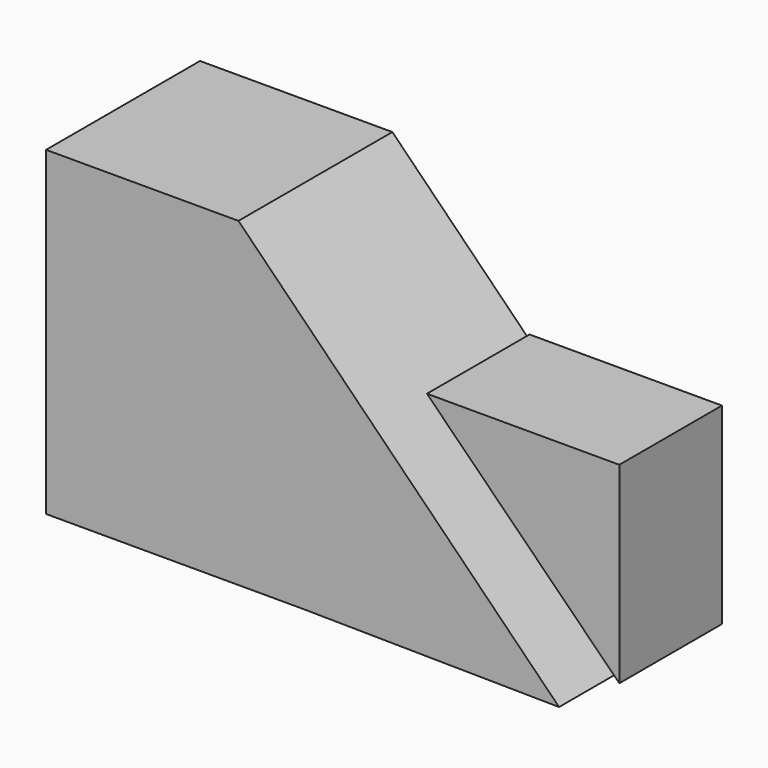
from build123d import *

# Parameters (mm, degrees)
F1_DEPTH = 38.1
F3_DEPTH = 25.4


with BuildPart() as f1:
    # F0 (on Front) → F1 (new body)
    with BuildSketch(Plane.XZ):
        Polygon((-41.598142, -36.834993), (9.201858, -36.834993), (59.998118, -37.451452), (-3.498142, 26.665007), (-41.598142, 26.665007), align=None)
    extrude(amount=F1_DEPTH)


with BuildPart() as f3:
    # F2 (on Front) → F3 (new body)
    with BuildSketch(Plane.XZ):
        Polygon((61.770211, 0.202786), (23.670211, 0.202786), (61.770211, -37.897214), align=None)
    extrude(amount=F3_DEPTH)


solid = Compound([f1.part, f3.part])
